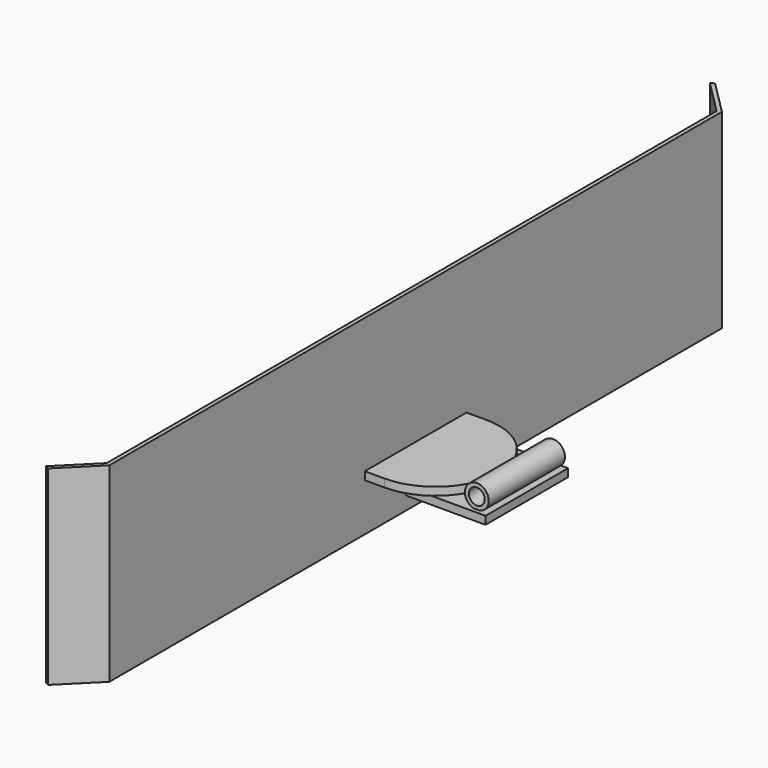
from build123d import *

# Parameters (mm, degrees)
F1_DEPTH = 304.8
F4_DEPTH = 12.7
F5_W     = 127
F5_H     = 165.1
F6_DEPTH = 12.7
F7_R     = 19.05
F7_R_2   = 12.7
F8_DEPTH = 76.2


with BuildPart() as f1:
    # F0 (on Top) → F1 (new body)
    with BuildSketch(Plane.XY):
        Polygon((123.7545942165, 609.6), (123.7545942165, -609.6), (69.8730574901, -663.4815367264), (75.5663116695, -666.7685385595), (130.1045942165, -612.2302560125), (130.1045942165, 612.2302561211), (75.4418789804, 666.8929713571), (69.8730574901, 663.4815367264), align=None)
    extrude(amount=F1_DEPTH)

    # F3 (on offset) → F4 (join)
    with BuildSketch(Plane.XY.offset(76.2)):
        with BuildLine():
            Line((130.1045942165, 101.6), (130.1045942165, -101.6))
            Line((130.1045942165, -101.6), (161.8545942165, -101.6))
            ThreePointArc((161.8545942165, -101.6), (263.4545942165, 0), (161.8545942165, 101.6))
            Line((161.8545942165, 101.6), (130.1045942165, 101.6))
        make_face()
    extrude(amount=F4_DEPTH)

    # F5 (on face) → F6 (join)
    with BuildSketch(Plane(origin=(0, 0, 76.2), x_dir=(1, 0, 0), z_dir=(0, 0, -1))):
        with Locations((244.4045942165, 0)):
            Rectangle(F5_W, F5_H)
    extrude(amount=F6_DEPTH)

    # F7 (on Front) → F8 (join, symmetric)
    with BuildSketch(Plane.XZ):
        with Locations((288.8545942165, 94.615)):
            Circle(F7_R)
        with Locations((288.8545942165, 94.615)):
            Circle(F7_R_2, mode=Mode.SUBTRACT)
    extrude(amount=F8_DEPTH, both=True)


solid = f1.part
